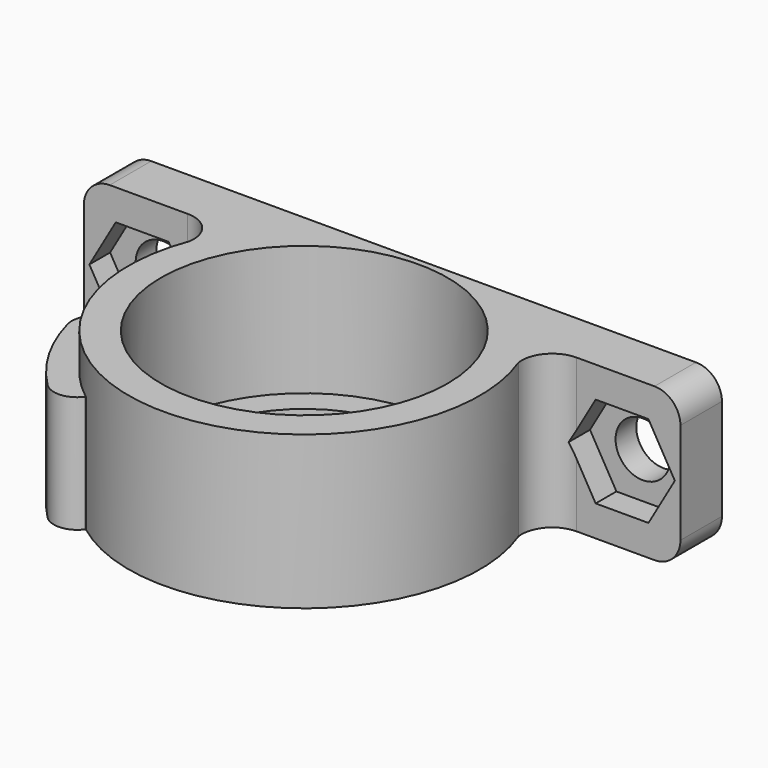
from build123d import *

# Parameters (mm, degrees)
PAD002_DEPTH    = 5.55
POCKET001_DEPTH = 0.5
POCKET002_DEPTH = 0.5
PAD003_DEPTH    = 2.5
PAD001_DEPTH    = 9
SKETCH_R        = 9
PAD_DEPTH       = 11.8
SKETCH001_R     = 11.05
POCKET_DEPTH    = 10
SKETCH010_R     = 1.6
POCKET003_DEPTH = 5
FILLET_R        = 1.8
SKETCH011_R     = 2.1
POCKET004_DEPTH = 5
POCKET005_DEPTH = 2
FILLET001_R     = 2


with BuildPart() as pad003:
    # Sketch004 → Pad002 (new body)
    with BuildSketch(Plane.XY.offset(2.225)):
        Polygon((-11.1717282118, -2.7499991288), (-7.9674332118, -8.3000008712), (-8.4004459137, -8.5500008712), (-11.6047409137, -2.9999991288), align=None)
    extrude(amount=PAD002_DEPTH)

    # Sketch006 → Pocket001 (cut)
    with BuildSketch(Plane(origin=(-9.5695807118, -5.525, 2.225), x_dir=(-0.5, 0.8660254038, 0), z_dir=(0.8660254038, 0.5, 0))):
        Polygon((-3.204295, 2.7750019602), (-1.6021491347, 5.55), (-3.204295, 5.55), align=None)
        Polygon((1.6021478772, 0), (3.204295, 0), (3.204295, 2.7750019602), align=None)
    extrude(amount=-POCKET001_DEPTH, mode=Mode.SUBTRACT)

    # Sketch008 → Pocket002 (cut)
    with BuildSketch(Plane(origin=(-9.5695807118, -5.525, 2.225), x_dir=(-0.5, 0.8660254038, 0), z_dir=(0.8660254038, 0.5, 0))):
        Polygon((1.6021478772, 5.5500030493), (3.204295, 5.5500030493), (3.204295, 2.7750019602), align=None)
        Polygon((-1.6021478772, 0), (-3.2042957545, 0), (-3.2042957545, 2.7750015246), align=None)
    extrude(amount=-POCKET002_DEPTH, mode=Mode.SUBTRACT)

    # Sketch009 → Pad003 (new body, symmetric)
    with BuildSketch(Plane(origin=(-9.5695807118, -5.525, 2.225), x_dir=(-0.5, 0.8660254038, 0), z_dir=(0.8660254038, 0.5, 0))):
        Polygon((1.6021491347, -7.4054e-06), (3.2042982695, 2.7749962973), (1.6021491347, 5.55), (-1.6021491347, 5.55), (-3.2042982695, 2.7749962973), (-1.6021491347, -7.4054e-06), align=None)
    extrude(amount=PAD003_DEPTH, both=True)


with BuildPart() as pad001:
    # Sketch003 → Pad001 (new body)
    with BuildSketch(Plane.XY):
        with BuildLine():
            ThreePointArc((-10.9554657182, -1.442314424), (-9.5695807118, -5.525), (-6.7268137905, -8.7665544102))
            Line((-9.4662402211, -12.3366444415), (-6.7268137905, -8.7665544102))
            ThreePointArc((-15.4169675944, -2.029682289), (-13.4666950288, -7.775), (-9.4662402211, -12.3366444415))
            Line((-10.9554657182, -1.442314424), (-15.4169675944, -2.029682289))
        make_face()
    extrude(amount=PAD001_DEPTH)


with BuildPart() as fillet001:
    # Sketch → Pad (new body)
    with BuildSketch(Plane.XY):
        with BuildLine():
            Line((-23, 11.5), (23, 11.5))
            Line((23, 11.5), (23, 7.5))
            Line((23, 7.5), (15, 7.5))
            ThreePointArc((15, 7.5), (13.217253485, 6.6833607789), (12.6713258975, 4.8))
            ThreePointArc((-12.6713258975, 4.8), (0, -13.55), (12.6713258975, 4.8))
            ThreePointArc((-12.6713258975, 4.8), (-13.217253485, 6.6833607789), (-15, 7.5))
            Line((-15, 7.5), (-23, 7.5))
            Line((-23, 7.5), (-23, 11.5))
        make_face()
        Circle(SKETCH_R, mode=Mode.SUBTRACT)
    extrude(amount=PAD_DEPTH)

    # Sketch001 → Pocket (cut)
    with BuildSketch(Plane.XY.offset(11.8)):
        Circle(SKETCH001_R)
    extrude(amount=-POCKET_DEPTH, mode=Mode.SUBTRACT)

    # Fusion: union Pad001
    add(pad001.part)

    # Cut: cut Pad003
    add(pad003.part, mode=Mode.SUBTRACT)

    # Sketch010 → Pocket003 (cut)
    with BuildSketch(Plane(origin=(-11.7346442213, -6.775, 0), x_dir=(-0.5, 0.8660254038, 0), z_dir=(0.8660254038, 0.5, 0))):
        with Locations((0, 4.9999962973)):
            Circle(SKETCH010_R)
    extrude(amount=-POCKET003_DEPTH, mode=Mode.SUBTRACT)

    # Fillet
    fillet_edges = [fillet001.edges().sort_by_distance(p)[0] for p in [
        (-15.416968, -2.029682, 4.5),
        (-9.46624, -12.336644, 4.5),
    ]]
    fillet(fillet_edges, radius=FILLET_R)

    # Sketch011 → Pocket004 (cut)
    with BuildSketch(Plane.XZ.offset(-7.5)):
        with Locations((-18.5, 5.9)):
            Circle(SKETCH011_R)
        with Locations((18.5, 5.9)):
            Circle(SKETCH011_R)
    extrude(amount=-POCKET004_DEPTH, mode=Mode.SUBTRACT)

    # Sketch012 → Pocket005 (cut, symmetric)
    with BuildSketch(Plane.XZ.offset(-7.5)):
        Polygon((-20.5351596989, 2.375), (-16.4648403011, 2.375), (-14.4296806022, 5.9), (-16.4648403011, 9.425), (-20.5351596989, 9.425), (-22.5703193978, 5.9), align=None)
        Polygon((16.4648403011, 2.375), (20.5351596989, 2.375), (22.5703193978, 5.9), (20.5351596989, 9.425), (16.4648403011, 9.425), (14.4296806022, 5.9), align=None)
    extrude(amount=POCKET005_DEPTH, both=True, mode=Mode.SUBTRACT)

    # Fillet001
    fillet001_edges = [fillet001.edges().sort_by_distance(p)[0] for p in [
        (-23, 9.5, 0),
        (-23, 9.5, 11.8),
        (23, 9.5, 0),
        (23, 9.5, 11.8),
    ]]
    fillet(fillet001_edges, radius=FILLET001_R)


solid = fillet001.part
